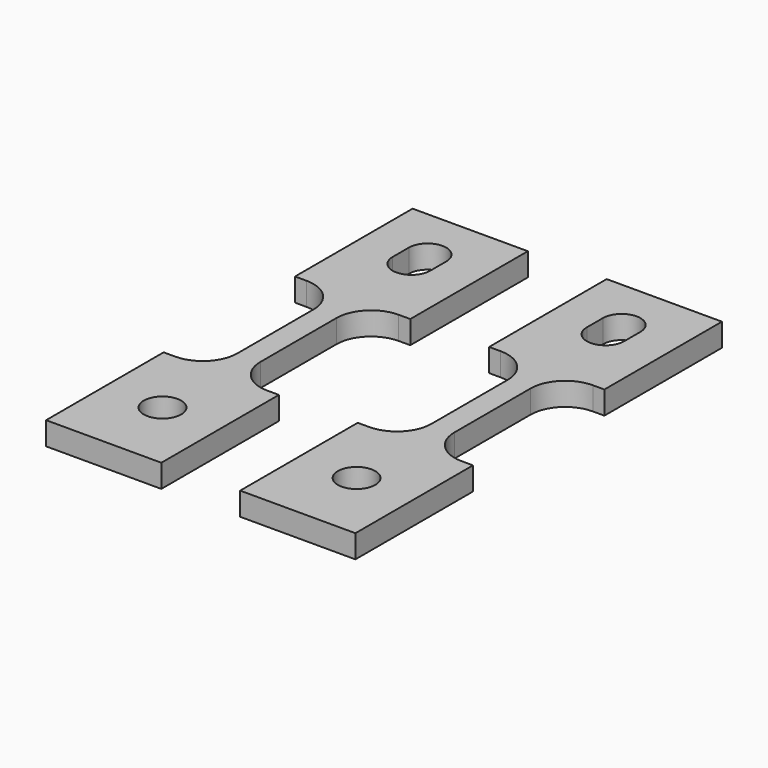
from build123d import *

# Parameters (mm, degrees)
F0_W     = 20
F0_H     = 25.5
F0_R     = 3.25
F0_W_2   = 4
F0_H_2   = 28.5
F1_DEPTH = 4
F2_W     = 4
F2_H     = 28.5
F3_DEPTH = 4
F4_R     = 6


with BuildPart() as f1:
    # F0 (on Top) → F1 (new body)
    with BuildSketch(Plane.XY):
        with Locations((0, 27)):
            Rectangle(F0_W, F0_H)
        with BuildLine():
            Line((-3.25, 27), (-3.25, 30.5))
            ThreePointArc((-3.25, 30.5), (0, 33.75), (3.25, 30.5))
            Line((3.25, 30.5), (3.25, 27))
            ThreePointArc((3.25, 27), (0, 23.75), (-3.25, 27))
        make_face(mode=Mode.SUBTRACT)
        with Locations((0, -27)):
            Rectangle(F0_W, F0_H)
        with Locations((0, -27)):
            Circle(F0_R, mode=Mode.SUBTRACT)
        Polygon((-23.45428, 39.465739), (-43.45428, 39.465739), (-43.45428, 13.965739), (-35.45428, 13.965739), (-31.45428, 13.965739), (-23.45428, 13.965739), align=None)
        with BuildLine():
            Line((-36.70428, 26.715739), (-36.70428, 30.215739))
            ThreePointArc((-36.70428, 30.215739), (-33.45428, 33.465739), (-30.20428, 30.215739))
            Line((-30.20428, 30.215739), (-30.20428, 26.715739))
            ThreePointArc((-30.20428, 26.715739), (-33.45428, 23.465739), (-36.70428, 26.715739))
        make_face(mode=Mode.SUBTRACT)
        with Locations((-33.45428, -0.284261)):
            Rectangle(F0_W_2, F0_H_2)
        Polygon((-31.45428, -14.534261), (-35.45428, -14.534261), (-43.45428, -14.534261), (-43.45428, -40.034261), (-23.45428, -40.034261), (-23.45428, -14.534261), align=None)
        with Locations((-33.45428, -27.284261)):
            Circle(F0_R, mode=Mode.SUBTRACT)
    extrude(amount=F1_DEPTH)

    # F2 (on Top) → F3 (join)
    with BuildSketch(Plane.XY):
        Rectangle(F2_W, F2_H)
    extrude(amount=F3_DEPTH)

    # F4
    f4_edges = [f1.edges().sort_by_distance(p)[0] for p in [
        (-2, 14.25, 2),
        (2, 14.25, 2),
        (2, -14.25, 2),
        (-2, -14.25, 2),
        (-35.45428, 13.965739, 2),
        (-31.45428, 13.965739, 2),
        (-31.45428, -14.534261, 2),
        (-35.45428, -14.534261, 2),
    ]]
    fillet(f4_edges, radius=F4_R)


solid = f1.part
